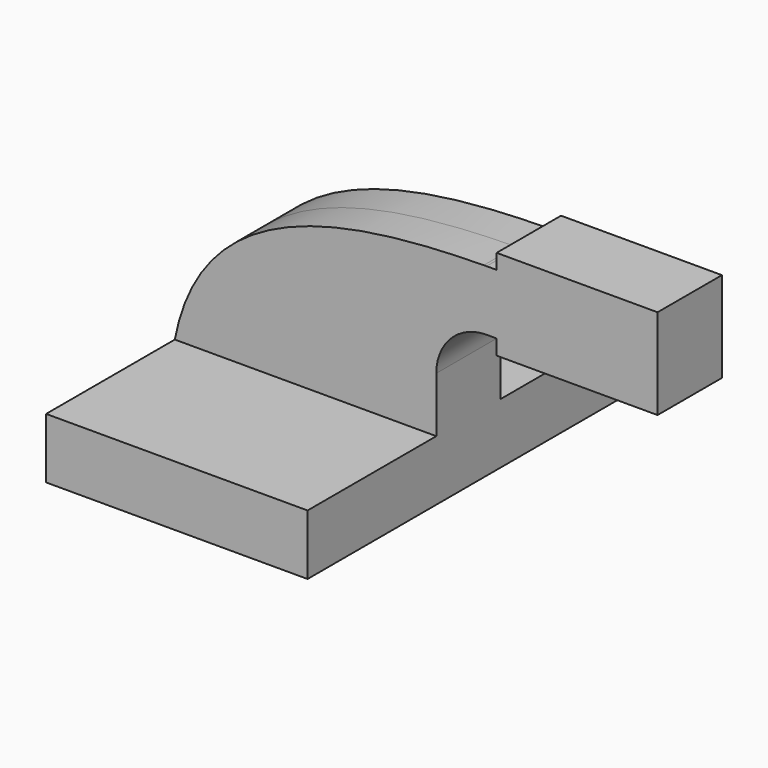
from build123d import *

# Parameters (mm, degrees)
F1_DEPTH  = 63.5
F1_FACE_W = 82.55
F1_FACE_H = 19.05
F0_W      = 25.4
F0_H      = 4.7752
F0_H_2    = 19.05
F0_H_3    = 4.7498
F2_DEPTH  = 12.7


with BuildPart() as f1:
    # F0 (on Front) → F1 (new body, symmetric)
    with BuildSketch(Plane.XZ):
        Polygon((-41.275, -9.525), (41.275, -9.525), (41.275, 9.525), (22.225, 9.525), (-41.275, 9.525), align=None)
    extrude(amount=F1_DEPTH, both=True)

    # F1_face (on face) + F0 (on Front) → F2 (join, symmetric)
    with BuildSketch(Plane(origin=(0, 63.5, 0), x_dir=(1, 0, 0), z_dir=(0, 1, 0))):
        Rectangle(F1_FACE_W, F1_FACE_H)
    with BuildSketch(Plane.XZ):
        Polygon((-41.275, -9.525), (41.275, -9.525), (41.275, 9.525), (22.225, 9.525), (-41.275, 9.525), align=None)
        with BuildLine():
            Line((22.225, 9.525), (41.275, 9.525))
            Line((41.275, 9.525), (41.275, 27.0002))
            ThreePointArc((41.275, 27.0002), (45.9246798487, 38.2255201513), (57.15, 42.8752))
            Line((57.15, 42.8752), (60.325, 42.8752))
            Line((60.325, 42.8752), (60.325, 61.9252))
            Line((60.325, 61.9252), (57.15, 61.9252))
            add(Edge.make_bspline(
                [(56.2677518181, 61.9140548881), (56.5620006967, 61.9180460619), (56.8560878742, 61.9217575161), (57.15, 61.9252)],
                knots=[110.7421409396, 110.7421409396, 110.7421409396, 110.7421409396, 111.5045361635, 111.5045361635, 111.5045361635, 111.5045361635], degree=3))
            ThreePointArc((56.2677518181, 61.9140548881), (32.1443192179, 51.3819873345), (22.225, 27.0002))
            Line((22.225, 27.0002), (22.225, 9.525))
        make_face()
        with BuildLine():
            add(Edge.make_bspline(
                [(-41.275, 9.525), (-32.6265766337, 54.8527217445), (13.5264678168, 61.3343147274), (56.2677518181, 61.9140548881)],
                knots=[0, 0, 0, 0, 110.7421409396, 110.7421409396, 110.7421409396, 110.7421409396], degree=3))
            Line((-41.275, 9.525), (22.225, 9.525))
            Line((22.225, 9.525), (22.225, 27.0002))
            ThreePointArc((22.225, 27.0002), (32.1443192179, 51.3819873345), (56.2677518181, 61.9140548881))
        make_face()
        with BuildLine():
            ThreePointArc((57.15, 61.9252), (56.7088407124, 61.9224136109), (56.2677518181, 61.9140548881))
            add(Edge.make_bspline(
                [(56.2677518181, 61.9140548881), (56.5620006967, 61.9180460619), (56.8560878742, 61.9217575161), (57.15, 61.9252)],
                knots=[110.7421409396, 110.7421409396, 110.7421409396, 110.7421409396, 111.5045361635, 111.5045361635, 111.5045361635, 111.5045361635], degree=3))
        make_face()
        with Locations((73.025, 40.4876)):
            Rectangle(F0_W, F0_H)
        with Locations((73.025, 52.4002)):
            Rectangle(F0_W, F0_H_2)
        with Locations((73.025, 64.3001)):
            Rectangle(F0_W, F0_H_3)
        Polygon((85.725, 61.9252), (85.725, 42.8752), (85.725, 38.1), (111.125, 38.1), (111.125, 66.675), (85.725, 66.675), align=None)
    extrude(amount=F2_DEPTH, both=True, dir=(0, 1, 0))


solid = f1.part
